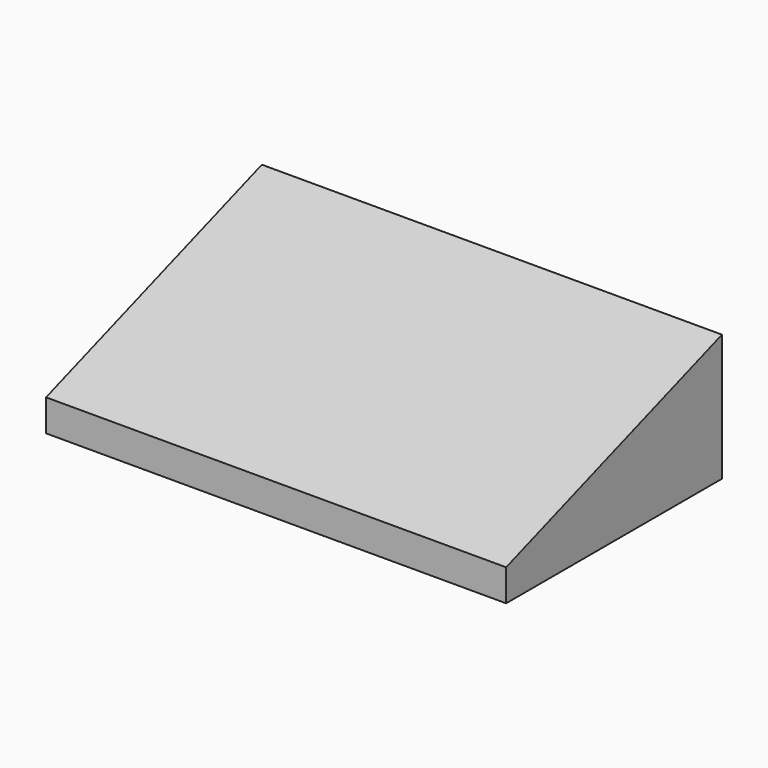
from build123d import *

# Parameters (mm, degrees)
F0_W     = 29
F0_H     = 17
F1_DEPTH = 8
F3_DEPTH = 1143


with BuildPart() as f1:
    # F0 (on Top) → F1 (new body)
    with BuildSketch(Plane.XY):
        Rectangle(F0_W, F0_H)
    extrude(amount=F1_DEPTH)

    # F2 (on face) → F3 (cut)
    with BuildSketch(Plane.YZ.offset(14.5)):
        Polygon((-8.5, 2), (8.5, 8), (-8.5, 8), align=None)
    extrude(amount=-F3_DEPTH, mode=Mode.SUBTRACT)


solid = f1.part
